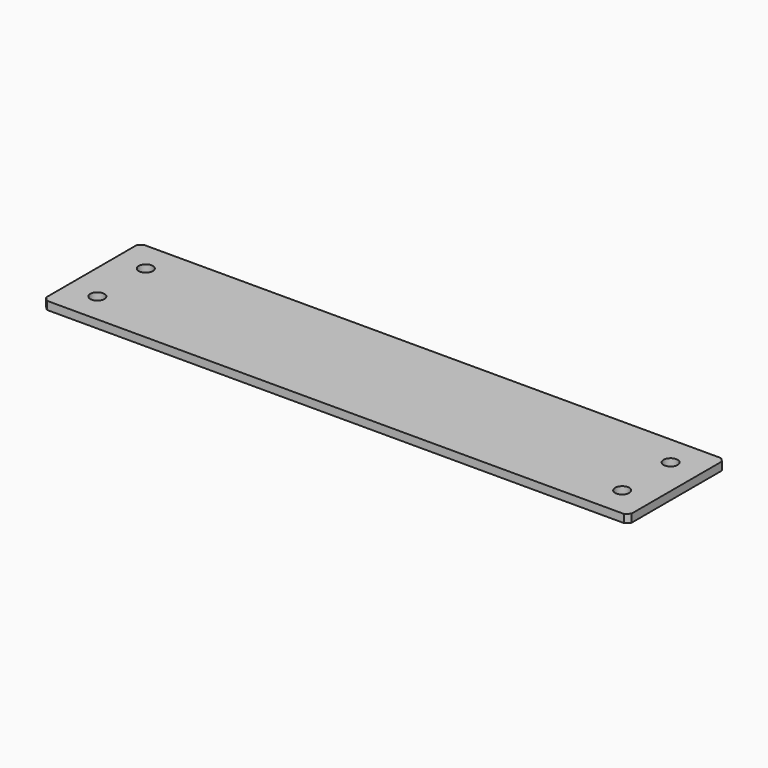
from build123d import *

# Parameters (mm, degrees)
F0_W     = 290
F0_H     = 60
F0_R     = 3.5
F1_DEPTH = 4
F2_SIZE  = 2


with BuildPart() as f1:
    # F0 (on Top) → F1 (new body)
    with BuildSketch(Plane.XY):
        Rectangle(F0_W, F0_H)
        with Locations((-130, -15)):
            Circle(F0_R, mode=Mode.SUBTRACT)
        with Locations((130, -15)):
            Circle(F0_R, mode=Mode.SUBTRACT)
        with Locations((-130, 15)):
            Circle(F0_R, mode=Mode.SUBTRACT)
        with Locations((130, 15)):
            Circle(F0_R, mode=Mode.SUBTRACT)
    extrude(amount=F1_DEPTH)

    # F2
    f2_edges = [f1.edges().sort_by_distance(p)[0] for p in [
        (-145, 30, 2),
        (-145, -30, 2),
        (145, 30, 2),
        (145, -30, 2),
    ]]
    chamfer(f2_edges, length=F2_SIZE)


solid = f1.part
